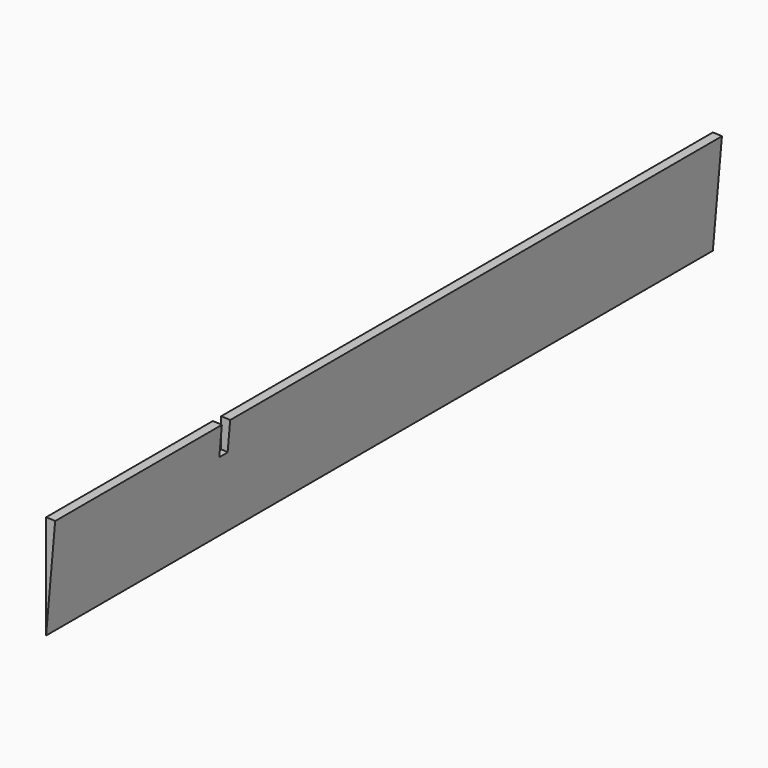
from build123d import *

# Parameters (mm, degrees)
F0_R     = 250
F1_DEPTH = 2000
F3_W     = 886.840463
F3_H     = 523.860752
F4_DEPTH = 25
F6_DEPTH = 2000


with BuildPart() as f1:
    # F0 (on Front) → F1 (new body)
    with BuildSketch(Plane.XZ):
        Circle(F0_R)
    extrude(amount=F1_DEPTH)

    # F3 (on offset) → F4 (cut)
    with BuildSketch(Plane.XZ.offset(1500)):
        with Locations((77.082694, -5.228102)):
            Rectangle(F3_W, F3_H)
        with BuildLine():
            add(Edge.make_bspline(
                [(130, 0), (130, 311.769145), (-65, 155.884573), (-260, 0), (-65, -155.884573), (130, -311.769145), (130, 0)],
                knots=[4.712389, 4.712389, 4.712389, 6.806784, 6.806784, 8.901179, 8.901179, 10.995574, 10.995574, 10.995574], degree=2, weights=[1, 0.5, 1, 0.5, 1, 0.5, 1]))
        make_face(mode=Mode.SUBTRACT)
    extrude(amount=-F4_DEPTH, mode=Mode.SUBTRACT)

    # F5 (on face) → F6 (intersect)
    with BuildSketch(Plane.XZ.offset(2000)):
        with BuildLine():
            Line((0, 250), (0, 0))
            Line((0, 0), (21.788936, 249.048675))
            ThreePointArc((21.788936, 249.048675), (10.904847, 249.762055), (0, 250))
        make_face()
    extrude(amount=-F6_DEPTH, mode=Mode.INTERSECT)


solid = f1.part
